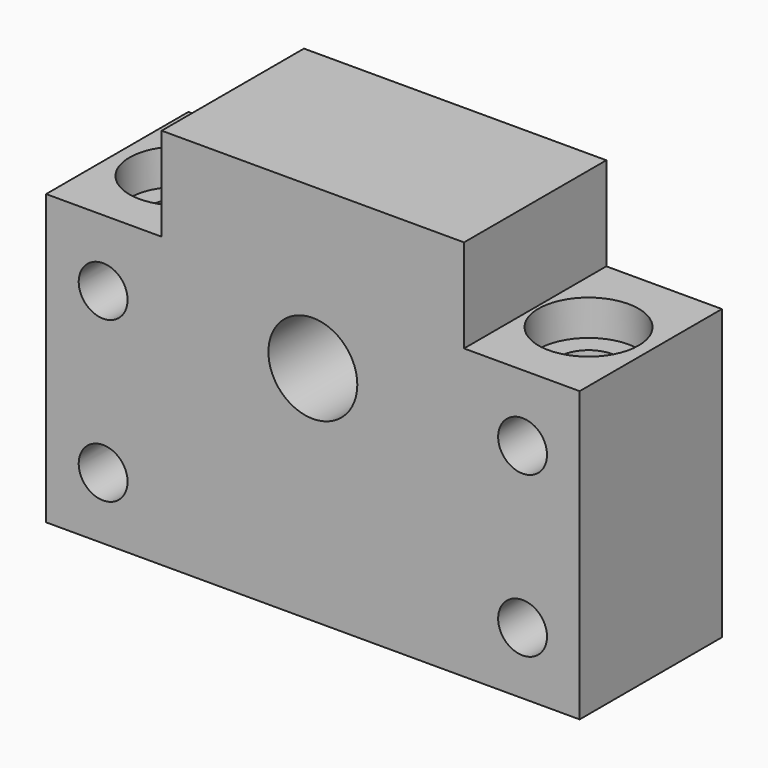
from build123d import *

# Parameters (mm, degrees)
F0_R           = 5
F1_DEPTH       = 20
F3_D           = 6.6
F3_CBORE_D     = 11.25
F3_CBORE_DEPTH = 4
F4_D           = 5.5


with BuildPart() as f1:
    # F0 (on Front) → F1 (new body)
    with BuildSketch(Plane.XZ):
        Polygon((30, -16.25), (30, 16.25), (17, 16.25), (17, 26.75), (-17, 26.75), (-17, 16.25), (-30, 16.25), (-30, -16.25), align=None)
        with Locations((0, 8.75)):
            Circle(F0_R, mode=Mode.SUBTRACT)
    extrude(amount=F1_DEPTH)

    # F3 (through all)
    with Locations(Plane.XY.offset(16.25)):
        with Locations((-23, -10), (23, -10)):
            CounterBoreHole(F3_D / 2, F3_CBORE_D / 2, F3_CBORE_DEPTH)

    # F4 (through all)
    with Locations(Plane(origin=(0, 0, 0), x_dir=(1, 0, 0), z_dir=(0, 1, 0))):
        with Locations((23.5833972692, -8.75), (23.5833972692, 9.25), (-23.5833972692, 9.25), (-23.5833972692, -8.75)):
            Hole(F4_D / 2)


solid = f1.part
